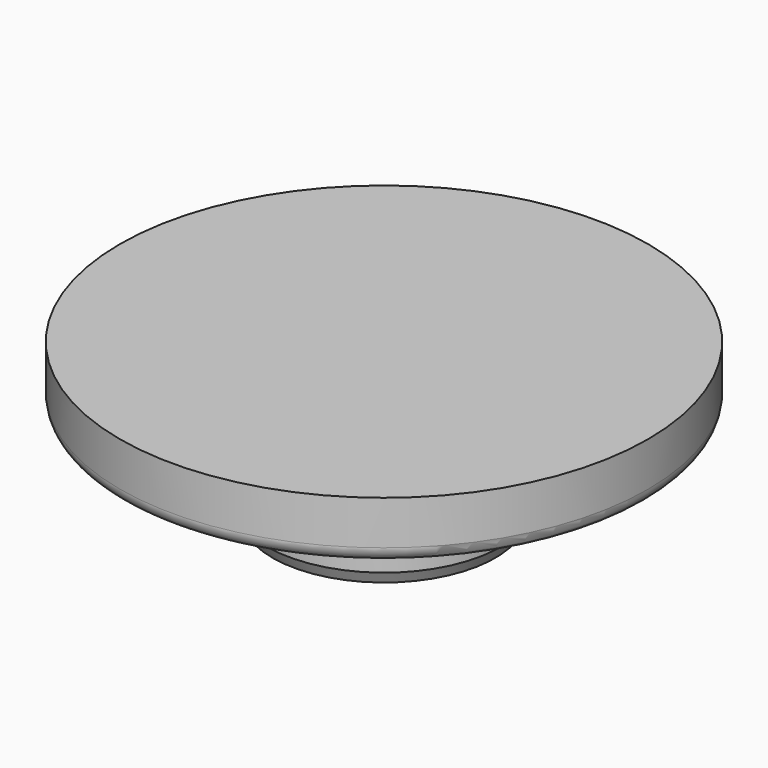
from build123d import *

# Parameters (mm, degrees)
F2_R     = 0.5
F3_SIZE2 = 0.2
F3_SIZE  = 0.4


with BuildPart() as f1:
    # F0 (on Front) → F1 (revolve)
    with BuildSketch(Plane.XZ):
        Polygon((-4, 0), (0, 0), (0, 5.25), (-9, 5.25), (-9, 3.25), (-5.25, 3.25), (-5.25, 2.25), (-4, 2.25), align=None)
    revolve(axis=Axis((0, 0, 2.625), (0, 0, 1)))

    # F2
    f2_edges = [f1.edges().sort_by_distance(p)[0] for p in [
        (9, 0, 3.25),
    ]]
    fillet(f2_edges, radius=F2_R)

    # F3
    f3_edges = [f1.edges().sort_by_distance(p)[0] for p in [
        (4, 0, 0),
    ]]
    f3_side = f1.faces().sort_by_distance((4, 0, 1.125))[0]
    chamfer(f3_edges, length=F3_SIZE, length2=F3_SIZE2, reference=f3_side)


solid = f1.part
